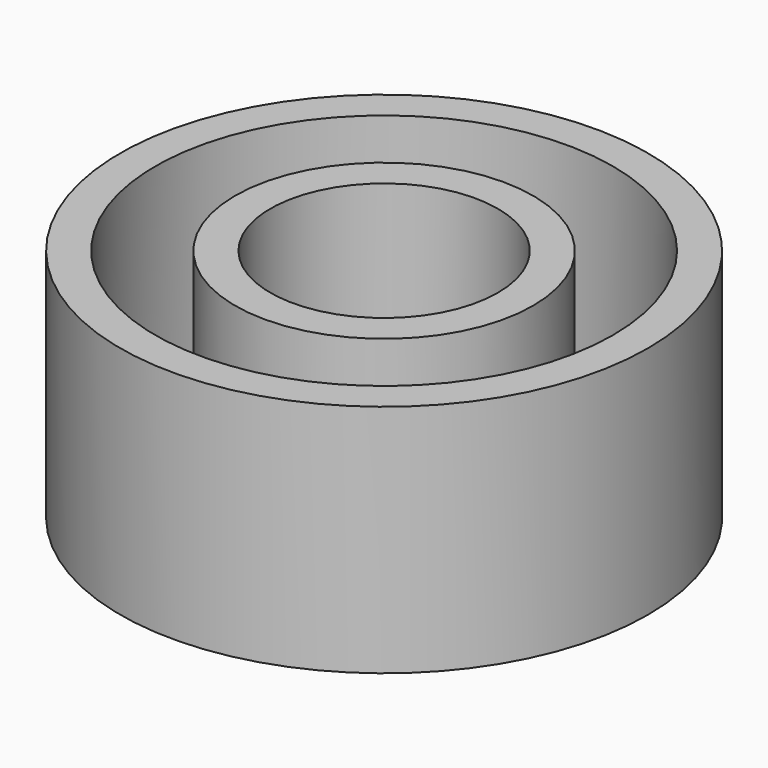
from build123d import *

# Parameters (mm, degrees)
F0_R     = 11.25
F0_R_2   = 9.75
F1_DEPTH = 10
F0_R_3   = 6.35
F0_R_4   = 4.8500001431
F2_DEPTH = 0.5


with BuildPart() as f1:
    # F0 (on Top) → F1 (new body)
    with BuildSketch(Plane.XY):
        Circle(F0_R)
        Circle(F0_R_2, mode=Mode.SUBTRACT)
    extrude(amount=F1_DEPTH)



with BuildPart() as f1b:
    # F0 (on Top) → F1, piece 2 (new body)
    with BuildSketch(Plane.XY):
        Circle(F0_R_3)
        Circle(F0_R_4, mode=Mode.SUBTRACT)
    extrude(amount=F1_DEPTH)


with BuildPart() as f1_1:
    add(f1.part)

    add(f1b.part)  # F2 merges F1b
    # F0 (on Top) → F2 (join)
    with BuildSketch(Plane.XY):
        Circle(F0_R_2)
        Circle(F0_R_3, mode=Mode.SUBTRACT)
    extrude(amount=F2_DEPTH)


solid = f1_1.part
